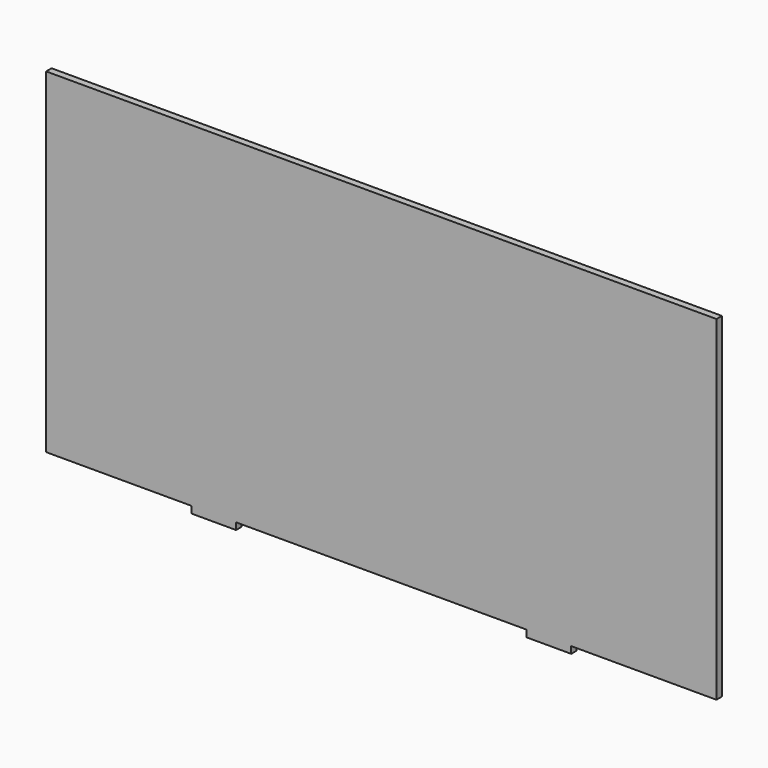
from build123d import *

# Parameters (mm, degrees)
F0_W     = 20.32
F0_H     = 3.1
F1_DEPTH = 3.1


with BuildPart() as f1:
    # F0 (on Front) → F1 (new body)
    with BuildSketch(Plane.XZ):
        with BuildLine():
            Line((150.0847015591, 26.4639822764), (0, 0))
            Line((0, 0), (66.04, 0))
            Line((66.04, 0), (86.36, 0))
            Line((86.36, 0), (152.4, 0))
            ThreePointArc((152.4, 0), (151.8200719892, 13.2825351947), (150.0847015591, 26.4639822764))
        make_face()
        with BuildLine():
            Line((0, 152.4), (0, 0))
            Line((0, 0), (26.4639822764, 150.0847015591))
            ThreePointArc((26.4639822764, 150.0847015591), (13.2825351947, 151.8200719892), (0, 152.4))
        make_face()
        with BuildLine():
            Line((26.4639822764, 150.0847015591), (0, 0))
            Line((0, 0), (52.1238698428, 143.2091554078))
            ThreePointArc((52.1238698428, 143.2091554078), (39.4440224736, 147.2070959265), (26.4639822764, 150.0847015591))
        make_face()
        with BuildLine():
            Line((52.1238698428, 143.2091554078), (0, 0))
            Line((0, 0), (76.2, 131.9822715367))
            ThreePointArc((76.2, 131.9822715367), (64.4070230893, 138.1213067444), (52.1238698428, 143.2091554078))
        make_face()
        with BuildLine():
            Line((76.2, 131.9822715367), (0, 0))
            Line((0, 0), (97.9608317162, 116.7451731313))
            ThreePointArc((97.9608317162, 116.7451731313), (87.4130488999, 124.8387715496), (76.2, 131.9822715367))
        make_face()
        with BuildLine():
            Line((97.9608317162, 116.7451731313), (0, 0))
            Line((0, 0), (116.7451731313, 97.9608317162))
            ThreePointArc((116.7451731313, 97.9608317162), (107.7630734528, 107.7630734528), (97.9608317162, 116.7451731313))
        make_face()
        with BuildLine():
            Line((116.7451731313, 97.9608317162), (0, 0))
            Line((0, 0), (131.9822715367, 76.2))
            ThreePointArc((131.9822715367, 76.2), (124.8387715496, 87.4130488999), (116.7451731313, 97.9608317162))
        make_face()
        with BuildLine():
            Line((131.9822715367, 76.2), (0, 0))
            Line((0, 0), (143.2091554078, 52.1238698428))
            ThreePointArc((143.2091554078, 52.1238698428), (138.1213067444, 64.4070230893), (131.9822715367, 76.2))
        make_face()
        with BuildLine():
            Line((143.2091554078, 52.1238698428), (0, 0))
            Line((0, 0), (150.0847015591, 26.4639822764))
            ThreePointArc((150.0847015591, 26.4639822764), (147.2070959265, 39.4440224736), (143.2091554078, 52.1238698428))
        make_face()
        with Locations((76.2, -1.55)):
            Rectangle(F0_W, F0_H)
        with BuildLine():
            Line((304.8, 152.4), (0, 152.4))
            ThreePointArc((0, 152.4), (13.2825351947, 151.8200719892), (26.4639822764, 150.0847015591))
            ThreePointArc((26.4639822764, 150.0847015591), (39.4440224736, 147.2070959265), (52.1238698428, 143.2091554078))
            ThreePointArc((52.1238698428, 143.2091554078), (64.4070230893, 138.1213067444), (76.2, 131.9822715367))
            ThreePointArc((76.2, 131.9822715367), (87.4130488999, 124.8387715496), (97.9608317162, 116.7451731313))
            ThreePointArc((97.9608317162, 116.7451731313), (107.7630734528, 107.7630734528), (116.7451731313, 97.9608317162))
            ThreePointArc((116.7451731313, 97.9608317162), (124.8387715496, 87.4130488999), (131.9822715367, 76.2))
            ThreePointArc((131.9822715367, 76.2), (138.1213067444, 64.4070230893), (143.2091554078, 52.1238698428))
            ThreePointArc((143.2091554078, 52.1238698428), (147.2070959265, 39.4440224736), (150.0847015591, 26.4639822764))
            ThreePointArc((150.0847015591, 26.4639822764), (151.8200719892, 13.2825351947), (152.4, 0))
            Line((152.4, 0), (218.44, 0))
            Line((218.44, 0), (238.76, 0))
            Line((238.76, 0), (301.7, 0))
            Line((301.7, 0), (304.8, 0))
            Line((304.8, 0), (304.8, 25.4))
            Line((304.8, 25.4), (304.8, 152.4))
        make_face()
        with Locations((228.6, -1.55)):
            Rectangle(F0_W, F0_H)
    extrude(amount=F1_DEPTH)


solid = f1.part
